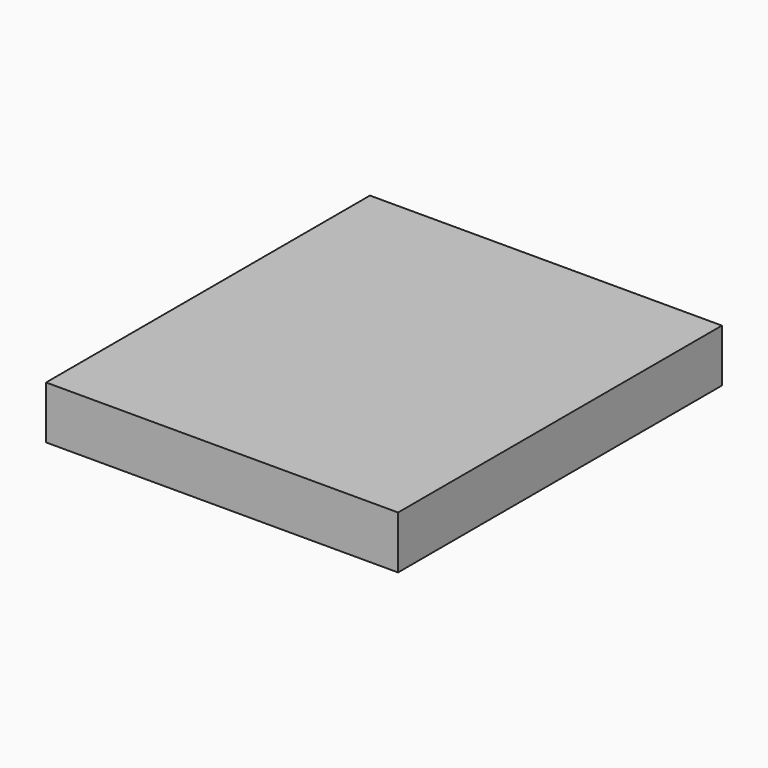
from build123d import *

# Parameters (mm, degrees)
BOX_W     = 200
BOX_H     = 230
BOX_DEPTH = 30


with BuildPart() as part:
    # Box → Box (new body)
    with BuildSketch(Plane.XY):
        with Locations((100, 115)):
            Rectangle(BOX_W, BOX_H)
    extrude(amount=BOX_DEPTH)


solid = part.part
